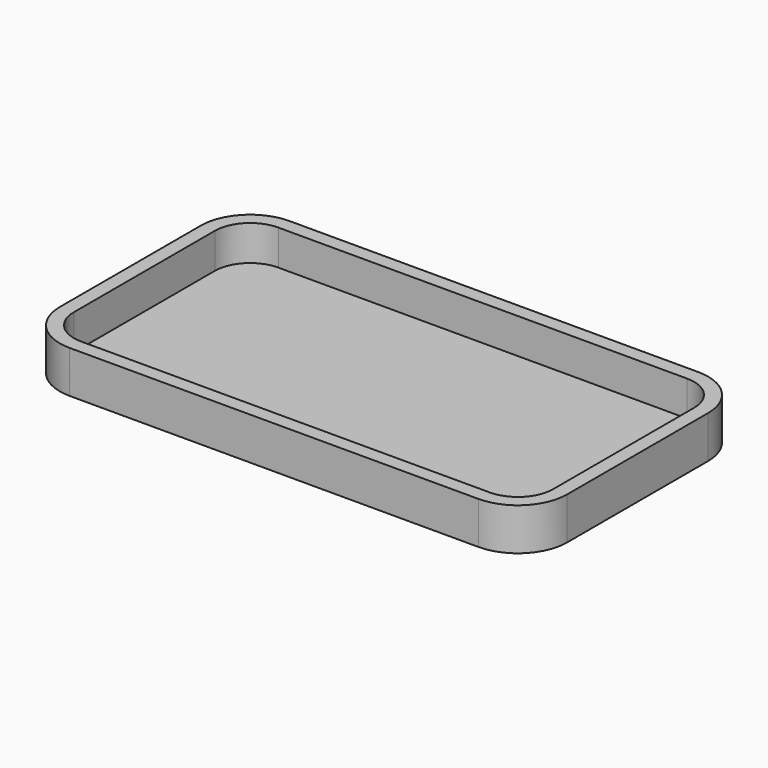
from build123d import *

# Parameters (mm, degrees)
F1_DEPTH = 2
F2_DEPTH = 12


with BuildPart() as f1:
    # F0 (on Top) → F1 (new body)
    with BuildSketch(Plane.XY):
        with BuildLine():
            ThreePointArc((-68, -25), (-65.071068, -32.071068), (-58, -35))
            Line((-58, -35), (58, -35))
            ThreePointArc((58, -35), (65.071068, -32.071068), (68, -25))
            Line((68, -25), (68, 25))
            ThreePointArc((68, 25), (65.071068, 32.071068), (58, 35))
            Line((58, 35), (-58, 35))
            ThreePointArc((-58, 35), (-65.071068, 32.071068), (-68, 25))
            Line((-68, 25), (-68, -25))
        make_face()
    extrude(amount=F1_DEPTH)

    # F0 (on Top) → F2 (join)
    with BuildSketch(Plane.XY):
        with BuildLine():
            Line((58, 39), (-58, 39))
            ThreePointArc((-58, 39), (-67.899495, 34.899495), (-72, 25))
            Line((-72, 25), (-72, -25))
            ThreePointArc((-72, -25), (-67.899495, -34.899495), (-58, -39))
            Line((-58, -39), (58, -39))
            ThreePointArc((58, -39), (67.899495, -34.899495), (72, -25))
            Line((72, -25), (72, 25))
            ThreePointArc((72, 25), (67.899495, 34.899495), (58, 39))
        make_face()
        with BuildLine():
            Line((58, -35), (-58, -35))
            ThreePointArc((-58, -35), (-65.071068, -32.071068), (-68, -25))
            Line((-68, -25), (-68, 25))
            ThreePointArc((-68, 25), (-65.071068, 32.071068), (-58, 35))
            Line((-58, 35), (58, 35))
            ThreePointArc((58, 35), (65.071068, 32.071068), (68, 25))
            Line((68, 25), (68, -25))
            ThreePointArc((68, -25), (65.071068, -32.071068), (58, -35))
        make_face(mode=Mode.SUBTRACT)
    extrude(amount=F2_DEPTH)


solid = f1.part
